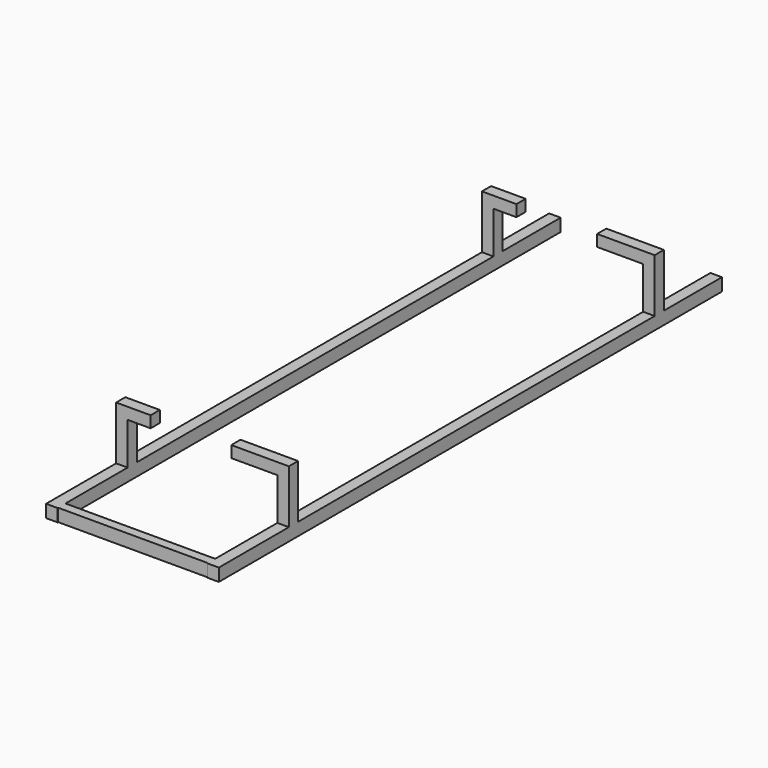
from build123d import *

# Parameters (mm, degrees)
F0_W      = 100
F0_H      = 5700
F1_DEPTH  = 110
F2_W      = 80
F2_H      = 110
F3_DEPTH  = 1350
F4_W      = 100
F4_H      = 100
F5_DEPTH  = 465
F6_DEPTH  = 240
F7_W      = 100
F7_H      = 100
F8_DEPTH  = 200
F9_W      = 100
F9_H      = 100
F10_DEPTH = 400
F11_W     = 100
F11_H     = 100
F12_DEPTH = 200


with BuildPart() as f1:
    # F0 (on Top) → F1 (new body)
    with BuildSketch(Plane.XY):
        with Locations((700, 0)):
            Rectangle(F0_W, F0_H)
    extrude(amount=F1_DEPTH)



with BuildPart() as f1b:
    # F0 (on Top) → F1, piece 2 (new body)
    with BuildSketch(Plane.XY):
        with Locations((-700, 0)):
            Rectangle(F0_W, F0_H)
    extrude(amount=F1_DEPTH)


with BuildPart() as f1_1:
    add(f1.part)

    add(f1b.part)  # F3 merges F1b
    # F2 (on face) → F3 (join)
    with BuildSketch(Plane.YZ.offset(-650)):
        with Locations((-2564.6993732452, 55)):
            Rectangle(F2_W, F2_H)
    extrude(amount=F3_DEPTH)

    # F4 (on face) → F5 (join)
    with BuildSketch(Plane.XY.offset(110)):
        with Locations((700, -1800)):
            Rectangle(F4_W, F4_H)
        with Locations((700, 2170)):
            Rectangle(F4_W, F4_H)
        with Locations((-700, -1800)):
            Rectangle(F4_W, F4_H)
        with Locations((-700, 2170)):
            Rectangle(F4_W, F4_H)
    extrude(amount=F5_DEPTH)

    # F6 (cut): faces of the model
    f6_faces = [f1_1.faces().sort_by_distance(p)[0] for p in [
        (700, -2850, 55),
        (-700, -2850, 55),
    ]]
    extrude(f6_faces, amount=-F6_DEPTH, mode=Mode.SUBTRACT)

    # F7 (on face) → F8 (join)
    with BuildSketch(Plane.YZ.offset(-650)):
        with Locations((2170, 525)):
            Rectangle(F7_W, F7_H)
    extrude(amount=F8_DEPTH)

    # F9 (on face) → F10 (join)
    with BuildSketch(Plane(origin=(650, 0, 0), x_dir=(0, -1, 0), z_dir=(-1, 0, 0))):
        with Locations((-2170, 525)):
            Rectangle(F9_W, F9_H)
        with Locations((1800, 525)):
            Rectangle(F9_W, F9_H)
    extrude(amount=F10_DEPTH)

    # F11 (on face) → F12 (join)
    with BuildSketch(Plane.YZ.offset(-650)):
        with Locations((-1800, 525)):
            Rectangle(F11_W, F11_H)
    extrude(amount=F12_DEPTH)


solid = f1_1.part
